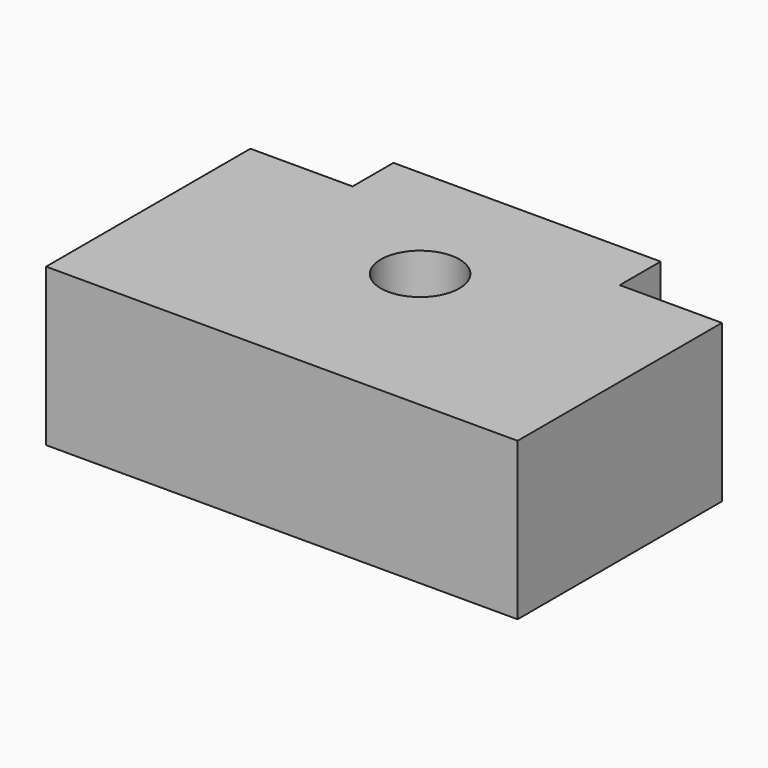
from build123d import *

# Parameters (mm, degrees)
SKETCH_R  = 5
PAD_DEPTH = 20


with BuildPart() as part:
    # Sketch → Pad (new body)
    with BuildSketch(Plane.XY):
        Polygon((-30, 0), (30, 0), (30, 32.5), (17, 32.5), (17, 39), (-17, 39), (-17, 32.5), (-30, 32.5), align=None)
        with Locations((0, 22)):
            Circle(SKETCH_R, mode=Mode.SUBTRACT)
    extrude(amount=PAD_DEPTH)


solid = part.part
